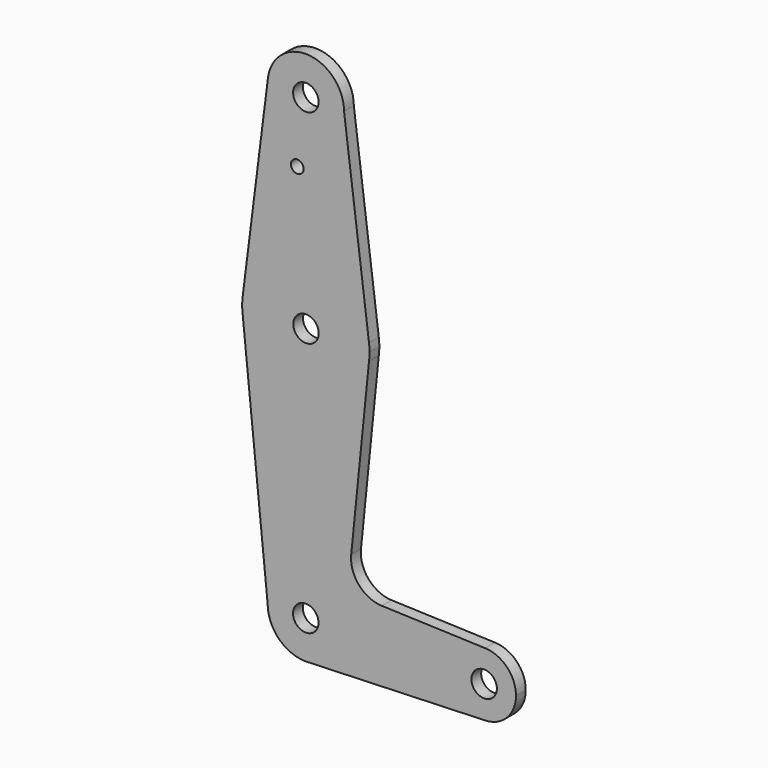
from build123d import *

# Parameters (mm, degrees)
F0_R     = 3.175
F0_R_2   = 1.5875
F1_DEPTH = 3.048


with BuildPart() as f1:
    # F0 (on Front) → F1 (new body)
    with BuildSketch(Plane.XZ):
        with BuildLine():
            ThreePointArc((-9.450293, 115.490625), (-0.596483, 104.793695), (9.525, 114.3))
            ThreePointArc((9.525, 114.3), (0.596483, 123.806305), (-9.450293, 115.490625))
        make_face()
        with Locations((-0.004506, 114.302017)):
            Circle(F0_R, mode=Mode.SUBTRACT)
        with BuildLine():
            Line((15.747457, 65.508289), (9.525, 114.3))
            ThreePointArc((9.525, 114.3), (-0.596483, 104.793695), (-9.450293, 115.490625))
            Line((-9.450293, 115.490625), (-15.750488, 65.484375))
            ThreePointArc((-15.750488, 65.484375), (-0.012053, 79.374995), (15.747457, 65.508289))
        make_face()
        with Locations((-2.138961, 98.399637)):
            Circle(F0_R_2, mode=Mode.SUBTRACT)
        with BuildLine():
            ThreePointArc((15.875, 63.5), (15.843082, 64.506168), (15.747457, 65.508289))
            ThreePointArc((15.747457, 65.508289), (-0.012053, 79.374995), (-15.750488, 65.484375))
            ThreePointArc((-15.750488, 65.484375), (-15.875, 63.5), (-15.750488, 61.515625))
            ThreePointArc((-15.750488, 61.515625), (-0.012053, 47.625005), (15.747457, 61.491711))
            ThreePointArc((15.747457, 61.491711), (15.843082, 62.493832), (15.875, 63.5))
        make_face()
        with Locations((0.034111, 63.529583)):
            Circle(F0_R, mode=Mode.SUBTRACT)
        with BuildLine():
            ThreePointArc((15.747457, 61.491711), (-0.012053, 47.625005), (-15.750488, 61.515625))
            Line((-15.750488, 61.515625), (-9.525, 0))
            ThreePointArc((-9.525, 0), (0, 9.525), (9.525, 0))
            ThreePointArc((9.525, 0), (6.970557, -6.491299), (0.677344, -9.500886))
            Line((0.677344, -9.500886), (44.732405, -7.932475))
            ThreePointArc((44.732405, -7.932475), (36.5125, 0), (44.732405, 7.932475))
            Line((44.732405, 7.932475), (18.932576, 8.850978))
            ThreePointArc((18.932576, 8.850978), (13.223672, 11.570776), (11.305627, 17.596552))
            Line((11.305627, 17.596552), (15.747457, 61.491711))
        make_face()
        with BuildLine():
            ThreePointArc((9.525, 0), (0, 9.525), (-9.525, 0))
            ThreePointArc((-9.525, 0), (-6.735192, -6.735192), (0, -9.525))
            Line((0, -9.525), (0.677344, -9.500886))
            ThreePointArc((0.677344, -9.500886), (6.970557, -6.491299), (9.525, 0))
        make_face()
        with Locations((-0.018029, -0.016996)):
            Circle(F0_R, mode=Mode.SUBTRACT)
        with BuildLine():
            Line((0.677344, -9.500886), (0, -9.525))
            ThreePointArc((0, -9.525), (0.338886, -9.51897), (0.677344, -9.500886))
        make_face()
        with BuildLine():
            ThreePointArc((52.3875, 0), (50.161633, 5.51191), (44.732405, 7.932475))
            ThreePointArc((44.732405, 7.932475), (36.5125, 0), (44.732405, -7.932475))
            ThreePointArc((44.732405, -7.932475), (50.161633, -5.51191), (52.3875, 0))
        make_face()
        with Locations((44.45, 0)):
            Circle(F0_R, mode=Mode.SUBTRACT)
    extrude(amount=F1_DEPTH)


solid = f1.part
